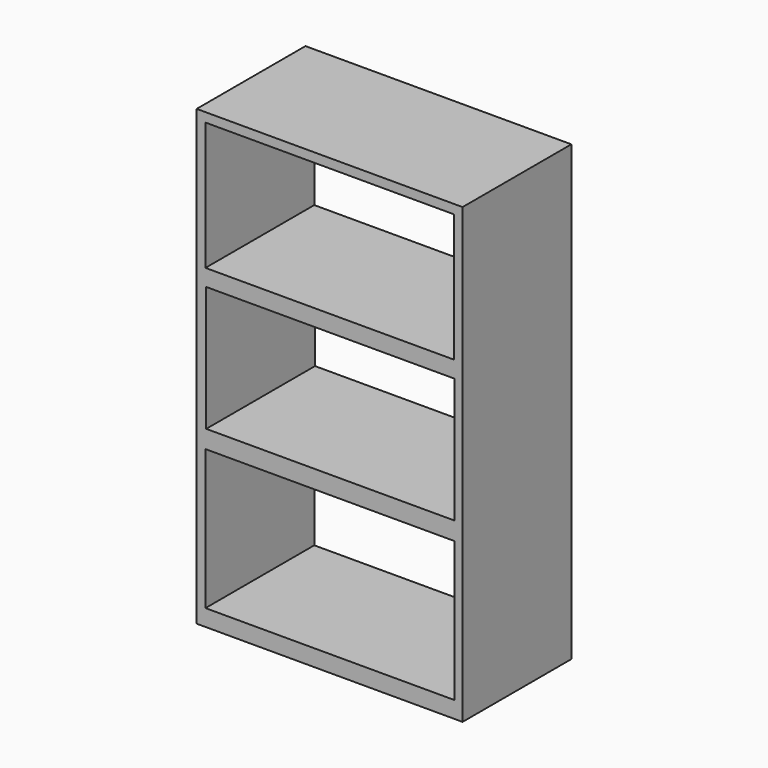
from build123d import *

# Parameters (mm, degrees)
F0_W     = 880
F0_H     = 450
F1_DEPTH = 1500
F2_W     = 821.893826
F2_H     = 423.399925
F2_W_2   = 821.893795
F2_H_2   = 413.437486
F2_W_3   = 824.384375
F2_H_3   = 463.24927
F3_DEPTH = 450


with BuildPart() as f1:
    # F0 (on Top) → F1 (new body)
    with BuildSketch(Plane.XY):
        with Locations((-440, 225)):
            Rectangle(F0_W, F0_H)
    extrude(amount=F1_DEPTH)

    # F2 (on face) → F3 (cut, through all)
    with BuildSketch(Plane.XZ):
        with Locations((-439.858787, 1257.938623)):
            Rectangle(F2_W, F2_H)
        with Locations((-437.368223, 784.727037)):
            Rectangle(F2_W_2, F2_H_2)
        with Locations((-438.613513, 286.609558)):
            Rectangle(F2_W_3, F2_H_3)
    extrude(amount=-F3_DEPTH, mode=Mode.SUBTRACT)


solid = f1.part
